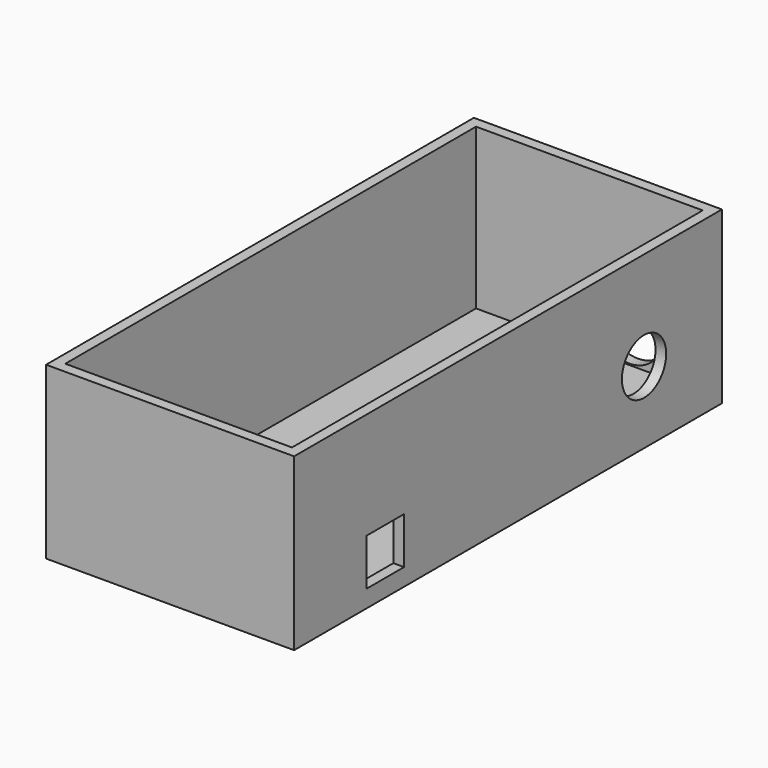
from build123d import *

# Parameters (mm, degrees)
F0_W     = 34
F0_H     = 77
F1_DEPTH = 1.6
F0_W_2   = 37.2
F0_H_2   = 80.2
F2_DEPTH = 25.6
F3_R     = 5
F4_DEPTH = 1.6
F5_R     = 4.15
F5_W     = 7
F5_H     = 7
F6_DEPTH = 1.6


with BuildPart() as f1:
    # F0 (on Top) → F1 (new body)
    with BuildSketch(Plane.XY):
        Rectangle(F0_W, F0_H)
    extrude(amount=F1_DEPTH)

    # F0 (on Top) → F2 (join)
    with BuildSketch(Plane.XY):
        Rectangle(F0_W_2, F0_H_2)
        Rectangle(F0_W, F0_H, mode=Mode.SUBTRACT)
    extrude(amount=F2_DEPTH)

    # F3 (on face) → F4 (cut, through all)
    with BuildSketch(Plane(origin=(0, 40.1, 0), x_dir=(-1, 0, 0), z_dir=(0, 1, 0))):
        with Locations((-6, 6.8)):
            Circle(F3_R)
    extrude(amount=-F4_DEPTH, mode=Mode.SUBTRACT)

    # F5 (on face) → F6 (cut, through all)
    with BuildSketch(Plane.YZ.offset(18.6)):
        with Locations((25.5, 10.8)):
            Circle(F5_R)
        with Locations((-23, 6.1)):
            Rectangle(F5_W, F5_H)
    extrude(amount=-F6_DEPTH, mode=Mode.SUBTRACT)


solid = f1.part
